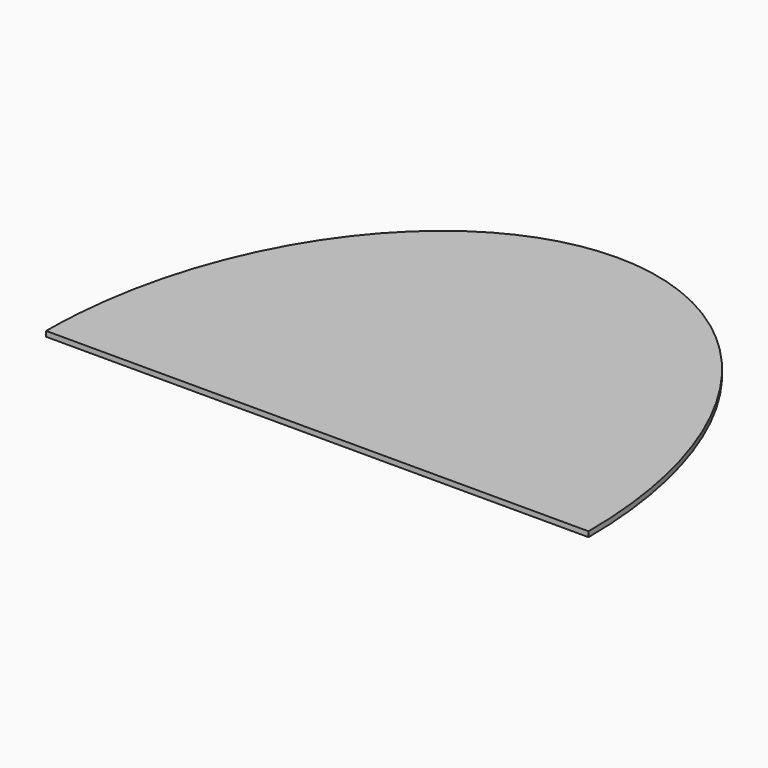
from build123d import *

# Parameters (mm, degrees)
F1_DEPTH = 25


with BuildPart() as f1:
    # F0 (on Top) → F1 (new body)
    with BuildSketch(Plane.XY):
        with BuildLine():
            Line((-1300, 0), (1300, 0))
            add(Edge.make_bspline(
                [(1300, 0), (1300, 1800), (0, 1800), (-1300, 1800), (-1300, 0)],
                knots=[4.7123889804, 4.7123889804, 4.7123889804, 6.2831853072, 6.2831853072, 7.853981634, 7.853981634, 7.853981634], degree=2, weights=[1, 0.7071067812, 1, 0.7071067812, 1]))
        make_face()
    extrude(amount=F1_DEPTH)


solid = f1.part
